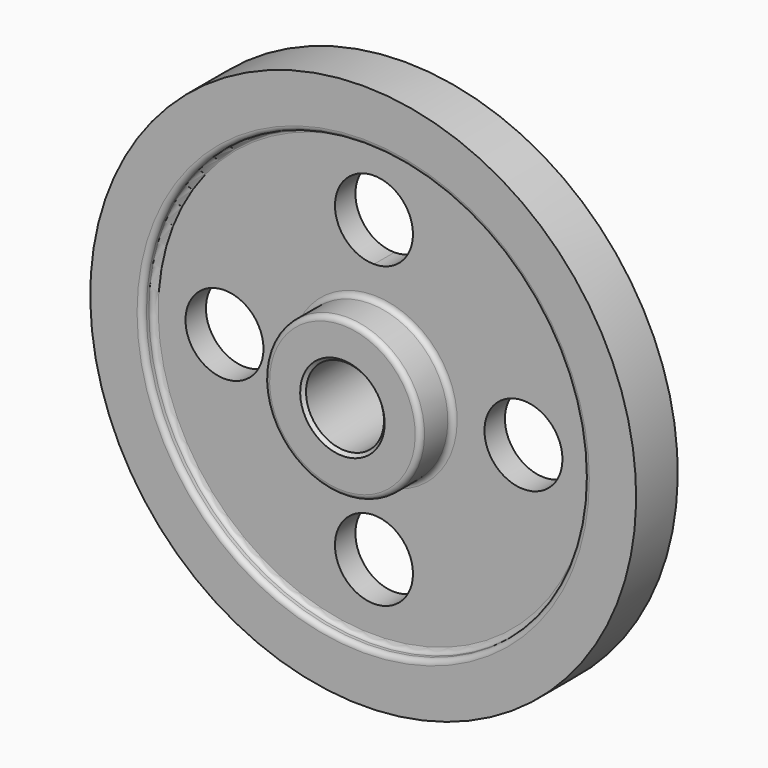
from build123d import *

# Parameters (mm, degrees)
F2_R     = 19.05
F3_DEPTH = 25.4
F4_R     = 2.54
F5_SIZE  = 1.5875


with BuildPart() as f1:
    # F0 (on Right) → F1 (revolve)
    with BuildSketch(Plane.YZ):
        Polygon((-25.4, 19.05), (0, 19.05), (25.4, 19.05), (25.4, 38.1), (6.35, 38.1), (6.35, 107.95), (12.7, 107.95), (12.7, 133.35), (0, 133.35), (-12.7, 133.35), (-12.7, 107.95), (-6.126798, 107.95), (-6.126798, 38.1), (-25.4, 38.1), align=None)
    revolve(axis=Axis((0, 47.2694, 0), (0, 1, 0)))

    # F2 (on face) → F3 (cut)
    with BuildSketch(Plane.XZ.offset(6.126798)):
        with Locations((73.025, 0)):
            Circle(F2_R)
        with Locations((0, -73.025)):
            Circle(F2_R)
        with Locations((-73.025, 0)):
            Circle(F2_R)
        with BuildLine():
            ThreePointArc((19.05, 73.025), (-13.470384, 86.495384), (0, 53.975))
            ThreePointArc((0, 53.975), (13.470384, 59.554616), (19.05, 73.025))
        make_face()
    extrude(amount=-F3_DEPTH, mode=Mode.SUBTRACT)

    # F4
    f4_edges = [f1.edges().sort_by_distance(p)[0] for p in [
        (0, -25.4, -38.1),
        (0, -6.126798, -38.1),
        (0, -12.7, -107.95),
        (0, -6.126798, -107.95),
        (0, 25.4, -38.1),
        (0, 6.35, -38.1),
        (0, 12.7, -107.95),
        (0, 6.35, -107.95),
    ]]
    fillet(f4_edges, radius=F4_R)

    # F5
    f5_edges = [f1.edges().sort_by_distance(p)[0] for p in [
        (0, -25.4, -19.05),
        (0, 25.4, -19.05),
    ]]
    chamfer(f5_edges, length=F5_SIZE)


solid = f1.part
